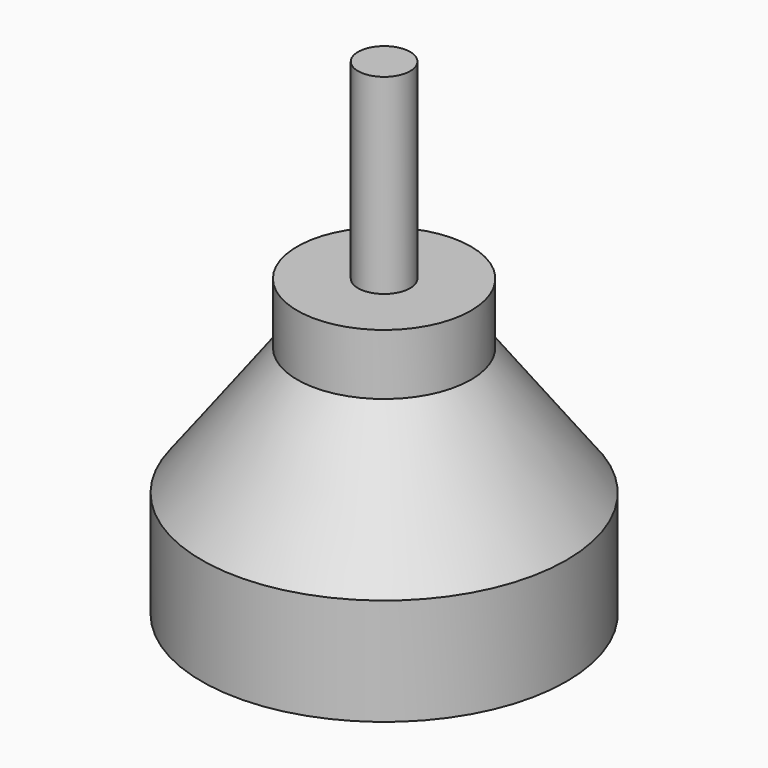
from build123d import *

# Parameters (mm, degrees)
F2_R     = 5.25
F2_R_2   = 1.5
F3_DEPTH = 3


with BuildPart() as f1:
    # F0 (on Front) → F1 (revolve)
    with BuildSketch(Plane.XZ):
        Polygon((0, 49.849994), (0, -6.150006), (21, -6.150006), (21, 6.150006), (10, 20.849994), (10, 27.849994), (3, 27.849994), (3, 49.849994), align=None)
    revolve(axis=Axis((0, 0, 20.970297), (0, 0, -1)))

    # F2 (on face) → F3 (cut)
    with BuildSketch(Plane(origin=(0, 0, -6.150006), x_dir=(1, 0, 0), z_dir=(0, 0, -1))):
        Circle(F2_R)
        with Locations((0, -12.77)):
            Circle(F2_R_2)
        with Locations((9.5, 0)):
            Circle(F2_R_2)
        with Locations((-9.5, 0)):
            Circle(F2_R_2)
        with Locations((0, 12.77)):
            Circle(F2_R_2)
    extrude(amount=-F3_DEPTH, mode=Mode.SUBTRACT)


solid = f1.part
